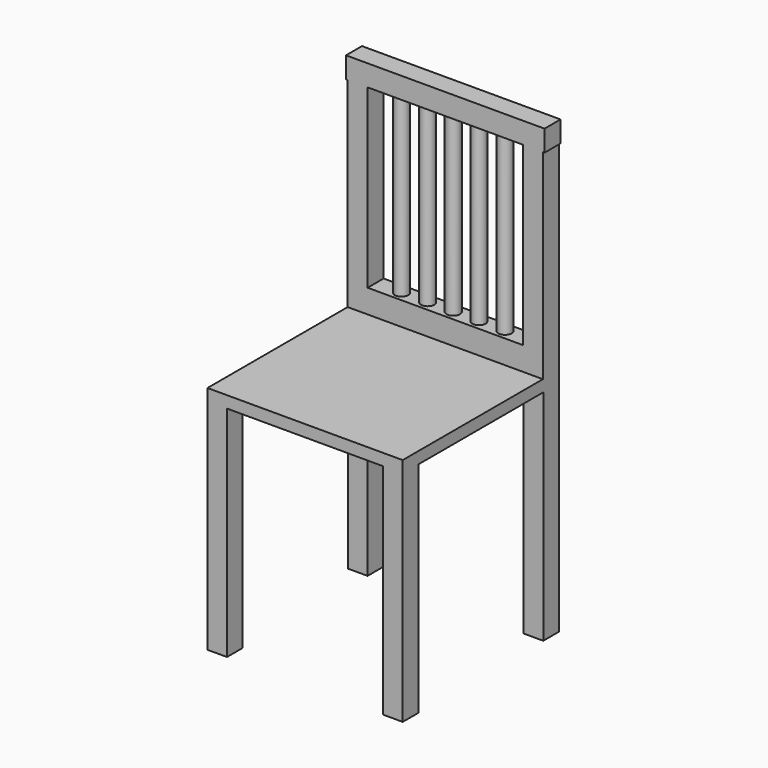
from build123d import *

# Parameters (mm, degrees)
F0_W      = 83
F0_H      = 83
F1_DEPTH  = 5
F2_W      = 83
F2_H      = 8.5
F3_DEPTH  = 10
F4_W      = 8.5
F4_H      = 8.5
F5_DEPTH  = 75
F6_R      = 2.85
F7_DEPTH  = 75
F8_W      = 83
F8_H      = 8.5
F8_R      = 2.85
F8_W_2    = 0.7
F9_DEPTH  = 9
F10_W     = 8.3
F10_H     = 8.3
F11_DEPTH = 93


with BuildPart() as f1:
    # F0 (on Top) → F1 (new body)
    with BuildSketch(Plane.XY):
        Rectangle(F0_W, F0_H)
    extrude(amount=F1_DEPTH)

    # F2 (on face) → F3 (join)
    with BuildSketch(Plane.XY.offset(5)):
        with Locations((0, 37.25)):
            Rectangle(F2_W, F2_H)
    extrude(amount=F3_DEPTH)

    # F4 (on face) → F5 (join)
    with BuildSketch(Plane.XY.offset(15)):
        with Locations((-37.25, 37.25)):
            Rectangle(F4_W, F4_H)
        with Locations((37.25, 37.25)):
            Rectangle(F4_W, F4_H)
    extrude(amount=F5_DEPTH)

    # F6 (on face) → F7 (join)
    with BuildSketch(Plane.XY.offset(15)):
        with Locations((-21.999383, 37.25)):
            Circle(F6_R)
        with Locations((-10.916319, 37.250001)):
            Circle(F6_R)
        with Locations((0, 37.25)):
            Circle(F6_R)
        with Locations((10.916319, 37.250001)):
            Circle(F6_R)
        with Locations((21.999383, 37.25)):
            Circle(F6_R)
    extrude(amount=F7_DEPTH)

    # F8 (on face) → F9 (join)
    with BuildSketch(Plane.XY.offset(90)):
        with Locations((0, 37.25)):
            Rectangle(F8_W, F8_H)
        with Locations((0, 37.25)):
            Circle(F8_R, mode=Mode.SUBTRACT)
        with Locations((0, 37.25)):
            Circle(F8_R)
        with Locations((-41.85, 37.25)):
            Rectangle(F8_W_2, F8_H)
        with Locations((41.85, 37.25)):
            Rectangle(F8_W_2, F8_H)
    extrude(amount=F9_DEPTH)

    # F10 (on face) → F11 (join)
    with BuildSketch(Plane(origin=(0, 0, 0), x_dir=(1, 0, 0), z_dir=(0, 0, -1))):
        with Locations((-37.35, 37.35)):
            Rectangle(F10_W, F10_H)
        with Locations((37.35, 37.35)):
            Rectangle(F10_W, F10_H)
        with Locations((-37.35, -37.35)):
            Rectangle(F10_W, F10_H)
        with Locations((37.35, -37.35)):
            Rectangle(F10_W, F10_H)
    extrude(amount=F11_DEPTH)


solid = f1.part
